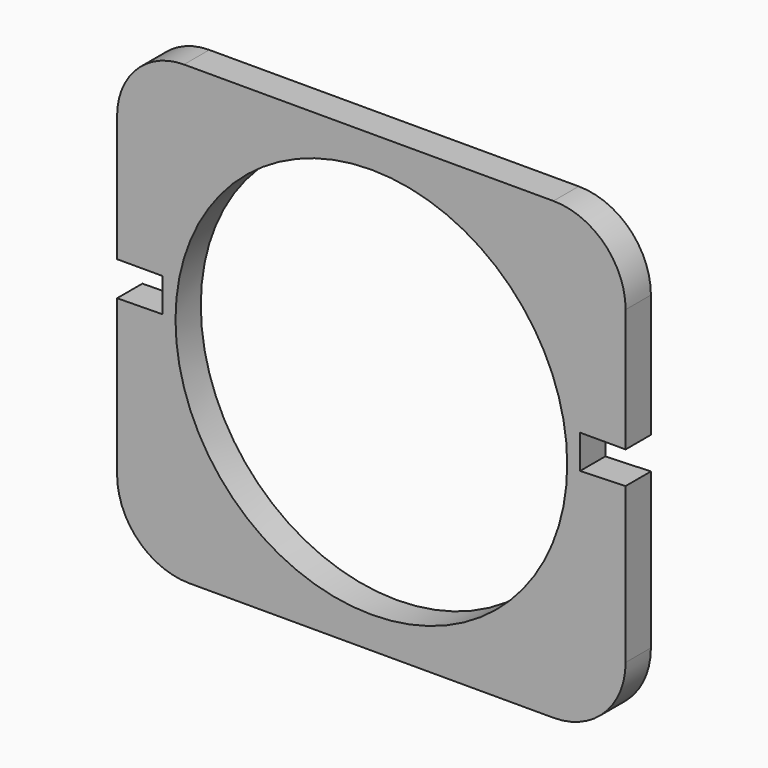
from build123d import *

# Parameters (mm, degrees)
F0_R     = 18.587822
F1_DEPTH = 3


with BuildPart() as f1:
    # F0 (on Front) → F1 (new body)
    with BuildSketch(Plane.XZ):
        with BuildLine():
            Line((17.279598, 21.59), (-17.78, 21.59))
            ThreePointArc((-17.78, 21.59), (-22.270128, 19.730128), (-24.13, 15.24))
            Line((-24.13, 15.24), (-24.13, 3.257707))
            Line((-24.13, 3.257707), (-19.812, 3.257707))
            Line((-19.812, 3.257707), (-19.812, 0.057707))
            Line((-19.812, 0.057707), (-24.13, 0))
            Line((-24.13, 0), (-24.13, -14.739598))
            ThreePointArc((-24.13, -14.739598), (-22.123564, -19.583564), (-17.279598, -21.59))
            Line((-17.279598, -21.59), (17.279598, -21.59))
            ThreePointArc((17.279598, -21.59), (22.123564, -19.583564), (24.13, -14.739598))
            Line((24.13, -14.739598), (24.13, 0))
            Line((24.13, 0), (19.812, -0.142293))
            Line((19.812, -0.142293), (19.812, 3.057707))
            Line((19.812, 3.057707), (24.13, 3.057707))
            Line((24.13, 3.057707), (24.13, 14.739598))
            ThreePointArc((24.13, 14.739598), (22.123564, 19.583564), (17.279598, 21.59))
        make_face()
        Circle(F0_R, mode=Mode.SUBTRACT)
    extrude(amount=F1_DEPTH)


solid = f1.part
